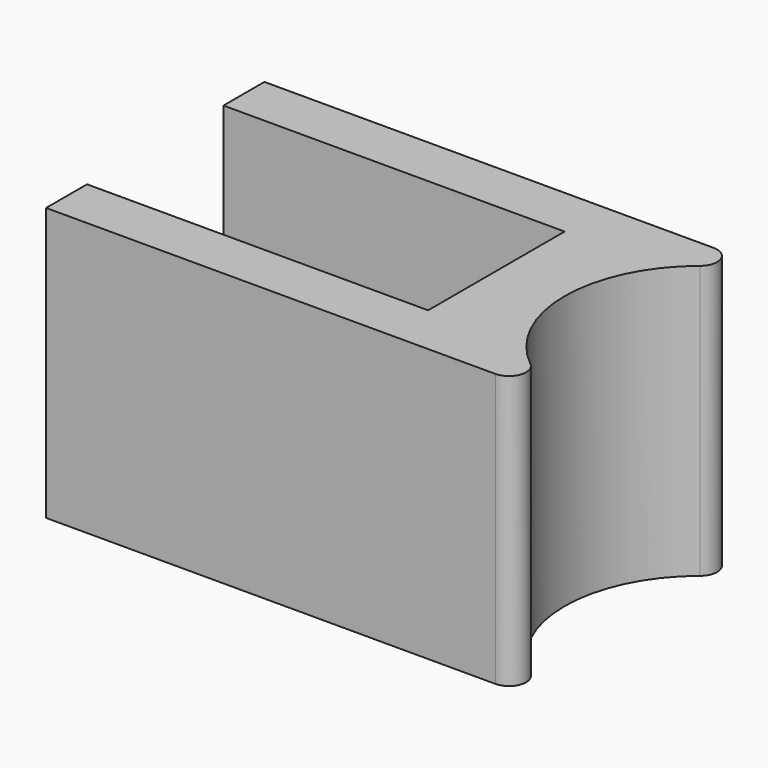
from build123d import *

# Parameters (mm, degrees)
F1_DEPTH = 4
F3_DEPTH = 5
F4_R     = 0.25


with BuildPart() as f1:
    # F0 (on Top) → F1 (new body)
    with BuildSketch(Plane.XY):
        with BuildLine():
            ThreePointArc((0, -2), (-2, 0), (0, 2))
            Line((0, 2), (-8, 2))
            Line((-8, 2), (-8, -2))
            Line((-8, -2), (0, -2))
        make_face()
    extrude(amount=F1_DEPTH)

    # F2 (on face) → F3 (cut)
    with BuildSketch(Plane(origin=(-8, 0, 0), x_dir=(0, -1, 0), z_dir=(-1, 0, 0))):
        with BuildLine():
            ThreePointArc((-1.25, 2), (0, 0.75), (1.25, 2))
            ThreePointArc((1.25, 2), (0, 3.25), (-1.25, 2))
        make_face()
        with BuildLine():
            ThreePointArc((-1.25, 2), (0, 3.25), (1.25, 2))
            Line((1.25, 2), (1.25, 4))
            Line((1.25, 4), (-1.25, 4))
            Line((-1.25, 4), (-1.25, 2))
        make_face()
    extrude(amount=-F3_DEPTH, mode=Mode.SUBTRACT)

    # F4
    f4_edges = [f1.edges().sort_by_distance(p)[0] for p in [
        (0, 2, 2),
        (0, -2, 2),
    ]]
    fillet(f4_edges, radius=F4_R)


solid = f1.part
